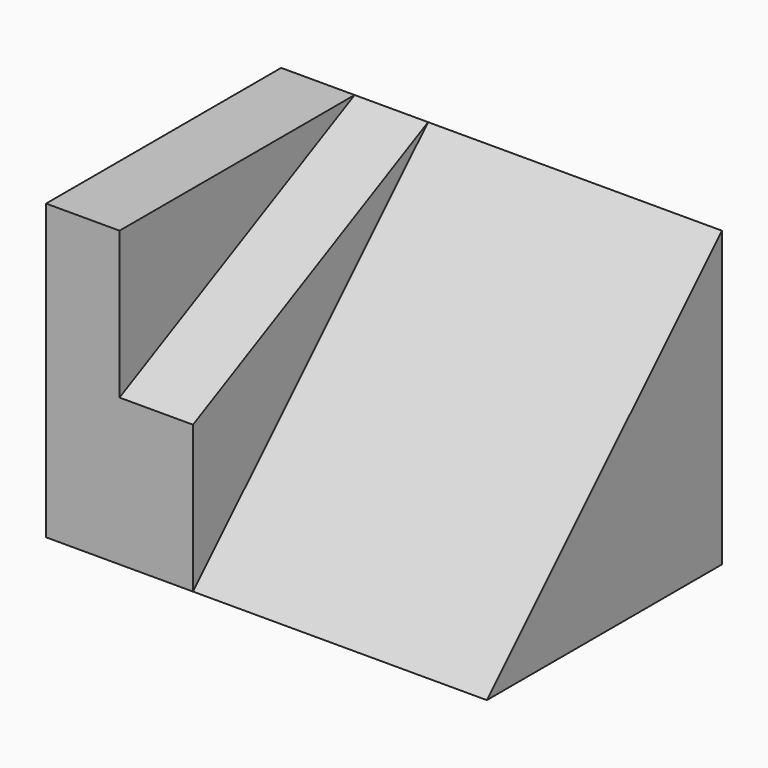
from build123d import *

# Parameters (mm, degrees)
F1_DEPTH = 38.1
F3_DEPTH = 31.75
F5_DEPTH = 25.4


with BuildPart() as f1:
    # F0 (on Right) → F1 (new body)
    with BuildSketch(Plane.YZ):
        Polygon((25.4, 25.4), (0, 0), (25.4, 0), align=None)
        Polygon((0, 12.7), (0, 0), (25.4, 25.4), align=None)
        Polygon((0, 25.4), (0, 12.7), (25.4, 25.4), align=None)
    extrude(amount=F1_DEPTH)

    # F2 (on face) → F3 (cut)
    with BuildSketch(Plane.YZ.offset(38.1)):
        Polygon((25.4, 25.4), (0, 25.4), (0, 12.7), align=None)
    extrude(amount=-F3_DEPTH, mode=Mode.SUBTRACT)

    # F4 (on face) → F5 (cut)
    with BuildSketch(Plane.YZ.offset(38.1)):
        Polygon((0, 12.7), (0, 0), (25.4, 25.4), align=None)
    extrude(amount=-F5_DEPTH, mode=Mode.SUBTRACT)


solid = f1.part
